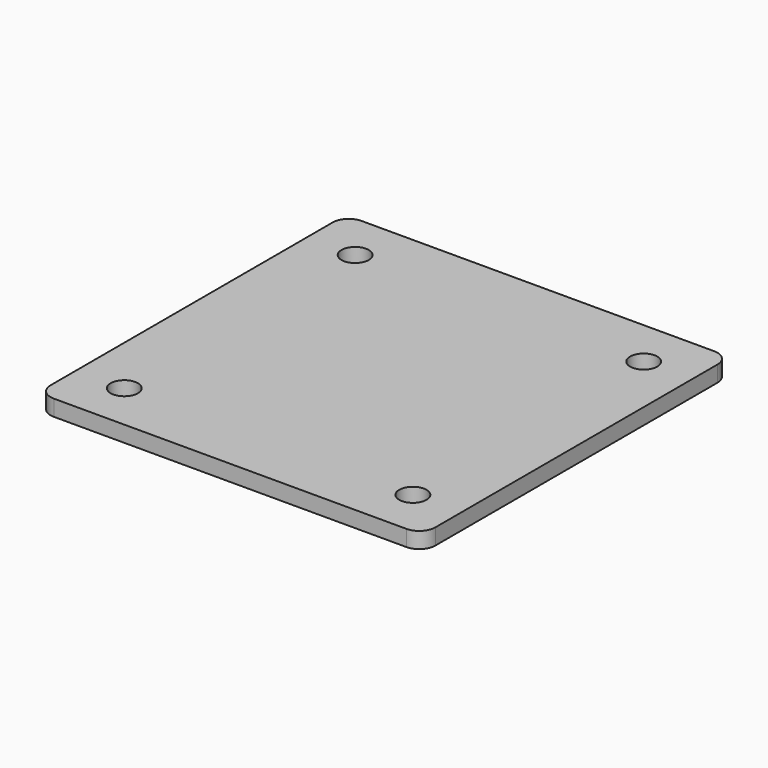
from build123d import *

# Parameters (mm, degrees)
F1_DEPTH = 6.35
F2_R     = 5.3975
F3_DEPTH = 6.35


with BuildPart() as f1:
    # F0 (on Top) → F1 (new body)
    with BuildSketch(Plane.XY):
        with BuildLine():
            Line((146.05, 0), (6.35, 0))
            ThreePointArc((6.35, 0), (1.859872, -1.859872), (0, -6.35))
            Line((0, -6.35), (0, -146.05))
            ThreePointArc((0, -146.05), (1.859872, -150.540128), (6.35, -152.4))
            Line((6.35, -152.4), (146.05, -152.4))
            ThreePointArc((146.05, -152.4), (150.540128, -150.540128), (152.4, -146.05))
            Line((152.4, -146.05), (152.4, -6.35))
            ThreePointArc((152.4, -6.35), (150.540128, -1.859872), (146.05, 0))
        make_face()
    extrude(amount=F1_DEPTH)

    # F2 (on face) → F3 (cut)
    with BuildSketch(Plane.XY.offset(6.35)):
        with Locations((133.35, -19.05)):
            Circle(F2_R)
        with Locations((133.35, -133.35)):
            Circle(F2_R)
        with Locations((19.05, -19.05)):
            Circle(F2_R)
        with Locations((19.05, -133.35)):
            Circle(F2_R)
    extrude(amount=-F3_DEPTH, mode=Mode.SUBTRACT)


solid = f1.part
